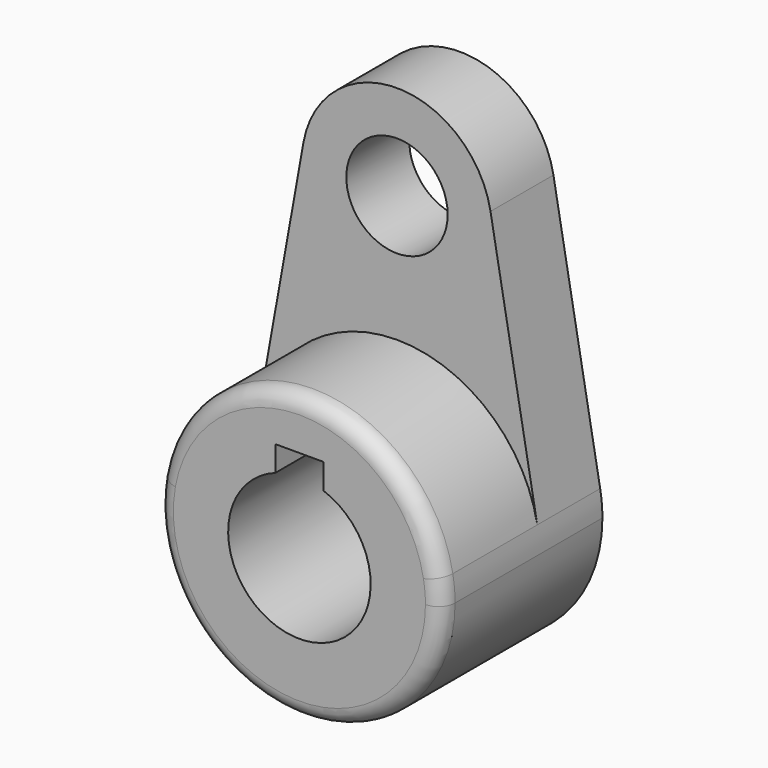
from build123d import *

# Parameters (mm, degrees)
F1_DEPTH = 40.2336
F0_R     = 10.16
F2_DEPTH = 15.7734
F3_R     = 3.302


with BuildPart() as f1:
    # F0 (on Front) → F1 (new body)
    with BuildSketch(Plane.XZ):
        with BuildLine():
            ThreePointArc((-28.126541, 5.042647), (-2.531275, -28.462665), (28.575, 0))
            ThreePointArc((28.575, 0), (28.462665, 2.531275), (28.126541, 5.042647))
            ThreePointArc((28.126541, 5.042647), (0, 28.575), (-28.126541, 5.042647))
        make_face()
        with BuildLine():
            ThreePointArc((4.826, 13.447765), (0, -14.2875), (-4.826, 13.447765))
            Line((-4.826, 13.447765), (-4.826, 18.5293))
            Line((-4.826, 18.5293), (4.826, 18.5293))
            Line((4.826, 18.5293), (4.826, 13.447765))
        make_face(mode=Mode.SUBTRACT)
    extrude(amount=F1_DEPTH)

    # F0 (on Front) → F2 (join)
    with BuildSketch(Plane.XZ):
        with BuildLine():
            ThreePointArc((-28.126541, 5.042647), (-2.531275, -28.462665), (28.575, 0))
            ThreePointArc((28.575, 0), (28.462665, 2.531275), (28.126541, 5.042647))
            ThreePointArc((28.126541, 5.042647), (0, 28.575), (-28.126541, 5.042647))
        make_face()
        with BuildLine():
            ThreePointArc((4.826, 13.447765), (0, -14.2875), (-4.826, 13.447765))
            Line((-4.826, 13.447765), (-4.826, 18.5293))
            Line((-4.826, 18.5293), (4.826, 18.5293))
            Line((4.826, 18.5293), (4.826, 13.447765))
        make_face(mode=Mode.SUBTRACT)
        with BuildLine():
            ThreePointArc((-28.126541, 5.042647), (0, 28.575), (28.126541, 5.042647))
            Line((28.126541, 5.042647), (18.751028, 57.336765))
            ThreePointArc((18.751028, 57.336765), (0, 73.025), (-18.751028, 57.336765))
            Line((-18.751028, 57.336765), (-28.126541, 5.042647))
        make_face()
        with Locations((0, 53.975)):
            Circle(F0_R, mode=Mode.SUBTRACT)
    extrude(amount=F2_DEPTH)

    # F3
    f3_edges = [f1.edges().sort_by_distance(p)[0] for p in [
        (-28.575, -40.2336, 0),
    ]]
    fillet(f3_edges, radius=F3_R)


solid = f1.part
